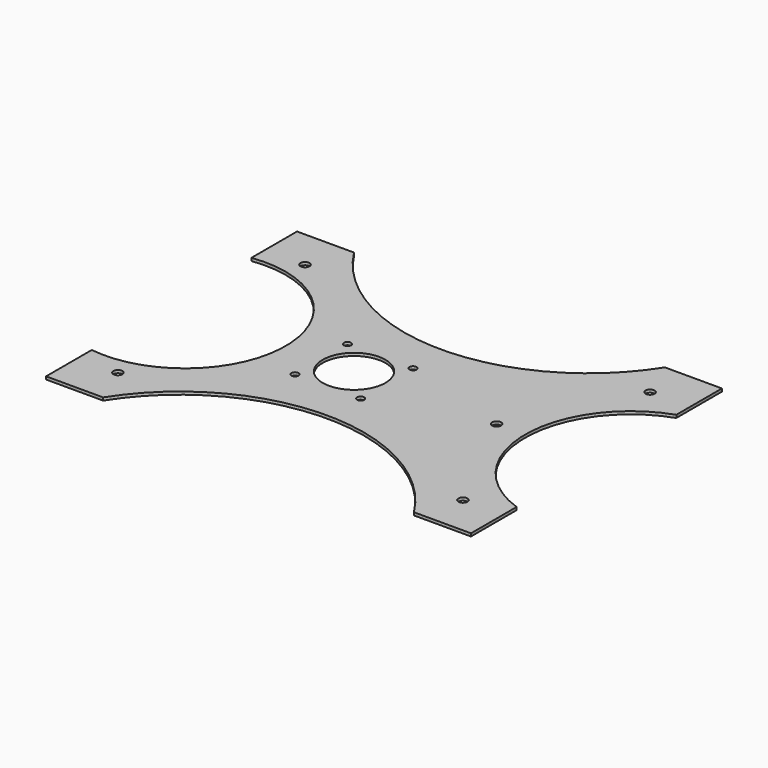
from build123d import *

# Parameters (mm, degrees)
F0_R      = 110
F0_R_2    = 1.25
F0_R_3    = 11
F0_R_4    = 1.5875
F1_DEPTH  = 1
F2_R      = 110
F2_W      = 150
F2_H      = 90
F3_DEPTH  = 1.001
F4_R      = 1.5875
F5_DEPTH  = 1.001
F6_W      = 21
F6_H      = 90
F7_DEPTH  = 1.001
F8_W      = 149
F8_H      = 110
F8_W_2    = 129
F8_H_2    = 90
F9_DEPTH  = 1
F11_DEPTH = 25


with BuildPart() as f1:
    # F0 (on Top) → F1 (new body)
    with BuildSketch(Plane.XY):
        Circle(F0_R)
        with Locations((-11.5, -11.5)):
            Circle(F0_R_2, mode=Mode.SUBTRACT)
        with Locations((11.5, -11.5)):
            Circle(F0_R_2, mode=Mode.SUBTRACT)
        with Locations((-11.5, 11.5)):
            Circle(F0_R_2, mode=Mode.SUBTRACT)
        Circle(F0_R_3, mode=Mode.SUBTRACT)
        with Locations((11.5, 11.5)):
            Circle(F0_R_2, mode=Mode.SUBTRACT)
        with Locations((50, 0)):
            Circle(F0_R_4, mode=Mode.SUBTRACT)
    extrude(amount=F1_DEPTH)

    # F2 (on Top) → F3 (cut, through all)
    with BuildSketch(Plane.XY):
        Circle(F2_R)
        Rectangle(F2_W, F2_H, mode=Mode.SUBTRACT)
    extrude(amount=F3_DEPTH, mode=Mode.SUBTRACT)

    # F4 (on Top) → F5 (cut, through all)
    with BuildSketch(Plane.XY):
        with Locations((-50, 41)):
            Circle(F4_R)
        with Locations((-50, -41)):
            Circle(F4_R)
        with Locations((71, -41)):
            Circle(F4_R)
        with Locations((71, 41)):
            Circle(F4_R)
    extrude(amount=F5_DEPTH, mode=Mode.SUBTRACT)

    # F6 (on Top) → F7 (cut, through all)
    with BuildSketch(Plane.XY):
        with Locations((-64.5, 0)):
            Rectangle(F6_W, F6_H)
    extrude(amount=F7_DEPTH, mode=Mode.SUBTRACT)

    # F8 (on Top) → F9 (join, through all)
    with BuildSketch(Plane.XY):
        with Locations((10.5, 0)):
            Rectangle(F8_W, F8_H)
        with Locations((10.5, 0)):
            Rectangle(F8_W_2, F8_H_2, mode=Mode.SUBTRACT)
    extrude(amount=F9_DEPTH)

    # F10 (on Top) → F11 (cut)
    with BuildSketch(Plane.XY):
        with BuildLine():
            Line((65, 55), (-44, 55))
            ThreePointArc((-44, 55), (10.5, 25), (65, 55))
        make_face()
        with BuildLine():
            ThreePointArc((-64, -35), (-24, 0), (-64, 35))
            Line((-64, 35), (-64, -35))
        make_face()
        with BuildLine():
            ThreePointArc((65, -55), (10.5, -25), (-44, -55))
            Line((-44, -55), (65, -55))
        make_face()
        with BuildLine():
            Line((85, -35), (85, 35))
            ThreePointArc((85, 35), (60, 0), (85, -35))
        make_face()
    extrude(amount=F11_DEPTH, mode=Mode.SUBTRACT)


solid = f1.part
